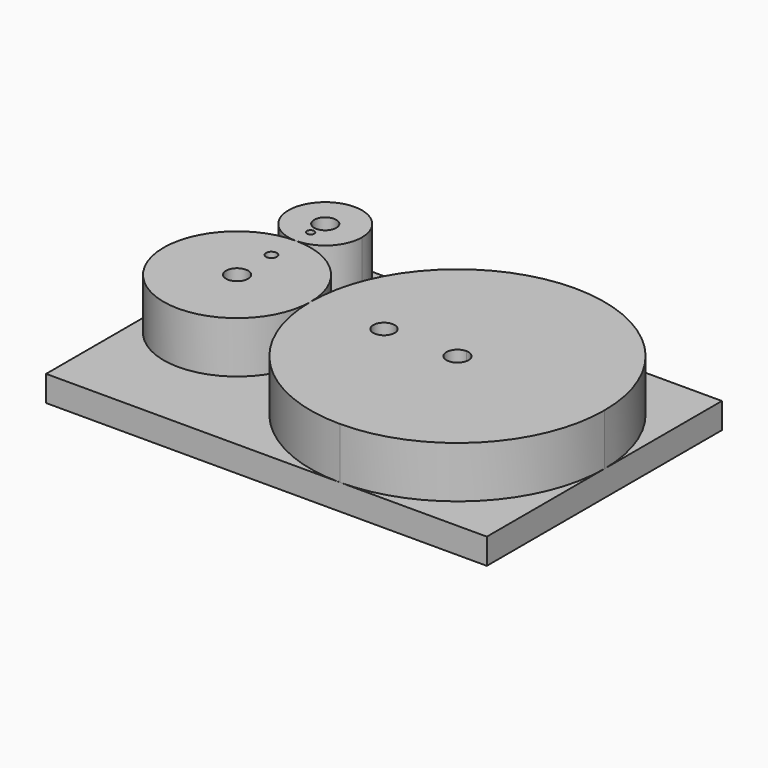
from build123d import *

# Parameters (mm, degrees)
F0_R     = 1.46143
F1_DEPTH = 7
F0_R_2   = 1.5
F0_R_3   = 0.736015
F2_DEPTH = 7
F0_R_4   = 0.505078
F3_DEPTH = 7
F4_W     = 60
F4_H     = 40
F4_R     = 1.5
F5_DEPTH = 3.5


with BuildPart() as f1:
    # F0 (on Top) → F1 (new body)
    with BuildSketch(Plane.XY):
        with BuildLine():
            ThreePointArc((50, 0), (44.142136, 14.142136), (30, 20))
            Line((30, 20), (30, 1.5))
            ThreePointArc((30, 1.5), (31.06066, 1.06066), (31.5, 0))
            ThreePointArc((31.5, 0), (31.06066, -1.06066), (30, -1.5))
            Line((30, -1.5), (30, -20))
            ThreePointArc((30, -20), (44.142136, -14.142136), (50, 0))
        make_face()
        with BuildLine():
            Line((30, 1.5), (30, 20))
            ThreePointArc((30, 20), (15.857864, 14.142136), (10, 0))
            ThreePointArc((10, 0), (15.857864, -14.142136), (30, -20))
            Line((30, -20), (30, -1.5))
            ThreePointArc((30, -1.5), (28.5, 0), (30, 1.5))
        make_face()
        with Locations((20, 0)):
            Circle(F0_R, mode=Mode.SUBTRACT)
    extrude(amount=F1_DEPTH)


with BuildPart() as f2:
    # F0 (on Top) → F2 (new body)
    with BuildSketch(Plane.XY):
        with BuildLine():
            ThreePointArc((-10, 0), (0, -10), (10, 0))
            ThreePointArc((10, 0), (7.071068, 7.071068), (0, 10))
            ThreePointArc((0, 10), (-7.071068, 7.071068), (-10, 0))
        make_face()
        Circle(F0_R_2, mode=Mode.SUBTRACT)
        with Locations((0, 5.84281)):
            Circle(F0_R_3, mode=Mode.SUBTRACT)
    extrude(amount=F2_DEPTH)


with BuildPart() as f3:
    # F0 (on Top) → F3 (new body)
    with BuildSketch(Plane.XY):
        with BuildLine():
            ThreePointArc((5, 15), (3.535534, 18.535534), (0, 20))
            ThreePointArc((0, 20), (-5, 15), (0, 10))
            ThreePointArc((0, 10), (3.535534, 11.464466), (5, 15))
        make_face()
        with Locations((0, 12.5)):
            Circle(F0_R_4, mode=Mode.SUBTRACT)
        with Locations((0, 15)):
            Circle(F0_R_2, mode=Mode.SUBTRACT)
    extrude(amount=F3_DEPTH)


with BuildPart() as f5:
    # F4 (on Top) → F5 (new body)
    with BuildSketch(Plane.XY):
        with Locations((20, 0)):
            Rectangle(F4_W, F4_H)
        Circle(F4_R, mode=Mode.SUBTRACT)
        with Locations((0, 15)):
            Circle(F4_R, mode=Mode.SUBTRACT)
        with Locations((30, 0)):
            Circle(F4_R, mode=Mode.SUBTRACT)
    extrude(amount=-F5_DEPTH)


solid = Compound([f1.part, f2.part, f3.part, f5.part])
